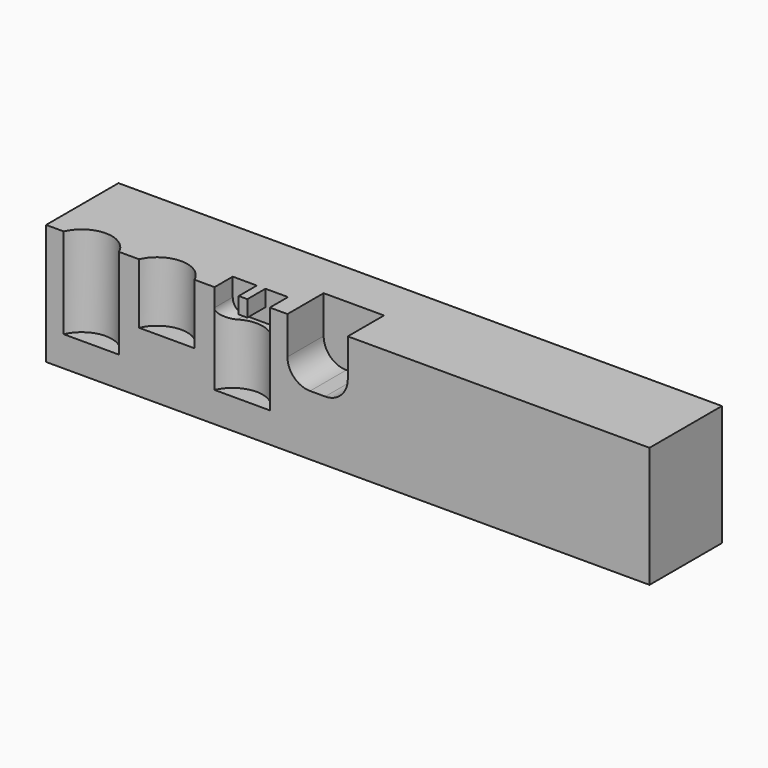
from build123d import *

# Parameters (mm, degrees)
F0_W      = 38.1
F0_H      = 50.8
F1_DEPTH  = 254
F3_DEPTH  = 38.1
F5_DEPTH  = 25.4
F7_DEPTH  = 38.1
F8_W      = 23.2794845304
F8_H      = 9.0677170083
F8_H_2    = 9.5680775121
F9_DEPTH  = 12.7
F10_R     = 5.08
F11_W     = 3.6223009229
F11_H     = 6.850992012
F12_DEPTH = 9.525
F14_DEPTH = 19.05
F15_R     = 9.525


with BuildPart() as f1:
    # F0 (on Right) → F1 (new body)
    with BuildSketch(Plane.YZ):
        with Locations((19.05, 25.4)):
            Rectangle(F0_W, F0_H)
    extrude(amount=F1_DEPTH)

    # F2 (on face) → F3 (cut)
    with BuildSketch(Plane.XY.offset(50.8)):
        with BuildLine():
            ThreePointArc((6.35, -5.08), (19.05, -17.78), (31.75, -5.08))
            ThreePointArc((31.75, -5.08), (19.05, 7.62), (6.35, -5.08))
        make_face()
    extrude(amount=-F3_DEPTH, mode=Mode.SUBTRACT)

    # F4 (on face) → F5 (cut)
    with BuildSketch(Plane.XY.offset(50.8)):
        with BuildLine():
            ThreePointArc((38.1, -5.08), (50.8, -17.78), (63.5, -5.08))
            ThreePointArc((63.5, -5.08), (50.8, 7.62), (38.1, -5.08))
        make_face()
    extrude(amount=-F5_DEPTH, mode=Mode.SUBTRACT)

    # F6 (on face) → F7 (cut)
    with BuildSketch(Plane.XY.offset(50.8)):
        with BuildLine():
            ThreePointArc((69.85, -5.08), (82.55, -17.78), (95.25, -5.08))
            ThreePointArc((95.25, -5.08), (82.55, 7.62), (69.85, -5.08))
        make_face()
    extrude(amount=-F7_DEPTH, mode=Mode.SUBTRACT)

    # F8 (on face) → F9 (cut)
    with BuildSketch(Plane.XY.offset(50.8)):
        with Locations((82.55, -4.5338585041)):
            Rectangle(F8_W, F8_H)
        with Locations((82.55, 4.784038756)):
            Rectangle(F8_W, F8_H_2)
    extrude(amount=-F9_DEPTH, mode=Mode.SUBTRACT)

    # F10
    f10_edges = [f1.edges().sort_by_distance(p)[0] for p in [
        (70.910258, 4.784039, 38.1),
        (94.189742, 4.784039, 38.1),
    ]]
    fillet(f10_edges, radius=F10_R)

    # F11 (on face) → F12 (join)
    with BuildSketch(Plane.XZ.offset(-9.5680775121)):
        with Locations((82.8721560538, 47.374503994)):
            Rectangle(F11_W, F11_H)
    extrude(amount=F12_DEPTH)

    # F13 (on face) → F14 (cut)
    with BuildSketch(Plane.XZ):
        Polygon((101.6, 50.8), (101.6, 38.1), (101.6, 25.4), (127, 25.4), (127, 50.8), align=None)
    extrude(amount=-F14_DEPTH, mode=Mode.SUBTRACT)

    # F15
    f15_edges = [f1.edges().sort_by_distance(p)[0] for p in [
        (101.6, 9.525, 25.4),
        (127, 9.525, 25.4),
    ]]
    fillet(f15_edges, radius=F15_R)


solid = f1.part
